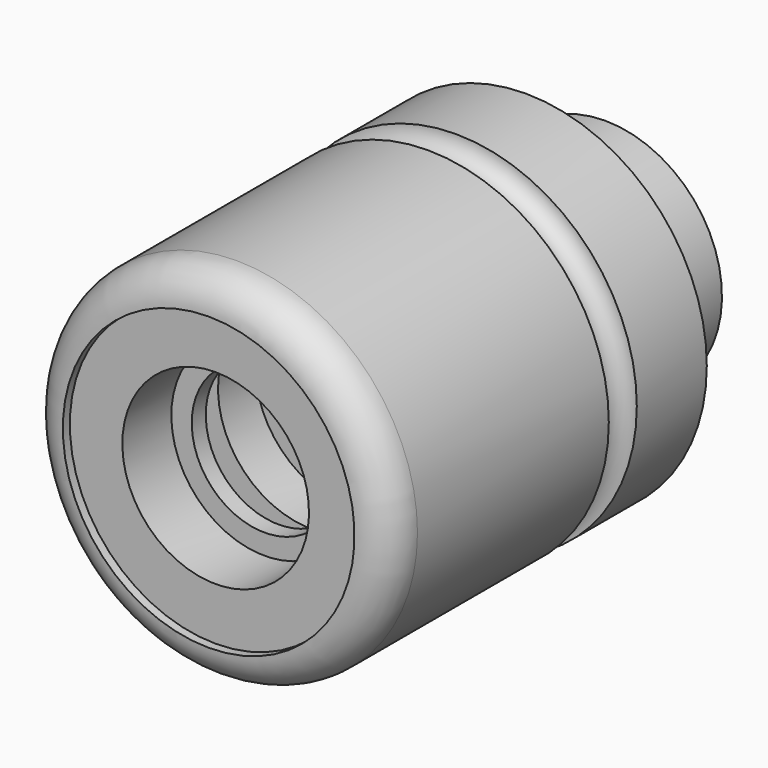
from build123d import *

# Parameters (mm, degrees)
F0_W = 76.2
F0_H = 406.4


with BuildPart() as f1:
    # F0 (on Right) → F1 (revolve)
    with BuildSketch(Plane.YZ):
        with Locations((2197.1, 203.2)):
            Rectangle(F0_W, F0_H)
        Polygon((1727.2, 508), (1727.2, 0), (2159, 0), (2159, 406.4), (2159, 508), align=None)
        with BuildLine():
            Line((0, 635), (0, 0))
            Line((0, 0), (1727.2, 0))
            Line((1727.2, 0), (1727.2, 508))
            Line((1727.2, 508), (1727.2, 787.4))
            Line((1727.2, 787.4), (1346.2, 787.4))
            ThreePointArc((1346.2, 787.4), (1270, 711.2), (1193.8, 787.4))
            Line((1193.8, 787.4), (152.4, 787.4))
            ThreePointArc((152.4, 787.4), (44.636927, 742.763073), (0, 635))
        make_face()
    revolve(axis=Axis((0, 1117.6, 0), (0, 1, 0)))

    # F2 (on Right) → F3 (revolve, cut)
    with BuildSketch(Plane.YZ):
        Polygon((0, 635), (0, 0), (2235.2, 0), (2235.2, 152.4), (762, 152.4), (762, 406.4), (558.8, 406.4), (558.8, 520.7), (381, 520.7), (381, 317.5), (304.8, 317.5), (304.8, 406.4), (38.1, 406.4), (38.1, 635), align=None)
    revolve(axis=Axis((0, 1117.6, 0), (0, 1, 0)), mode=Mode.SUBTRACT)


solid = f1.part
